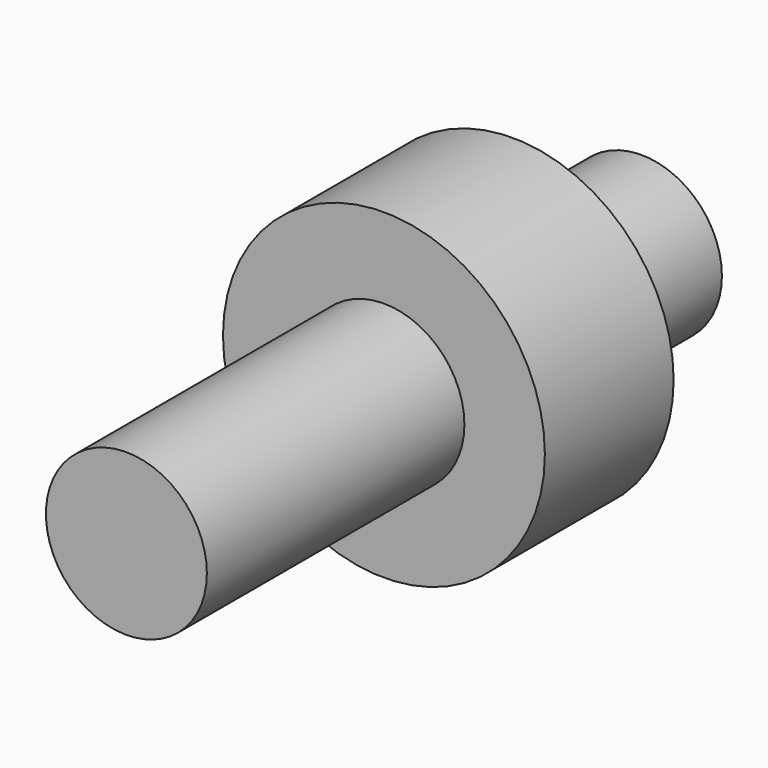
from build123d import *

# Parameters (mm, degrees)
F0_R     = 63.5
F1_DEPTH = 508
F3_R     = 127
F4_DEPTH = 127


with BuildPart() as f1:
    # F0 (on Front) → F1 (new body)
    with BuildSketch(Plane.XZ):
        Circle(F0_R)
    extrude(amount=F1_DEPTH)

    # F3 (on offset) → F4 (join)
    with BuildSketch(Plane(origin=(0, -127, 0), x_dir=(1, 0, 0), z_dir=(0, 1, 0))):
        Circle(F3_R)
    extrude(amount=-F4_DEPTH)


solid = f1.part
